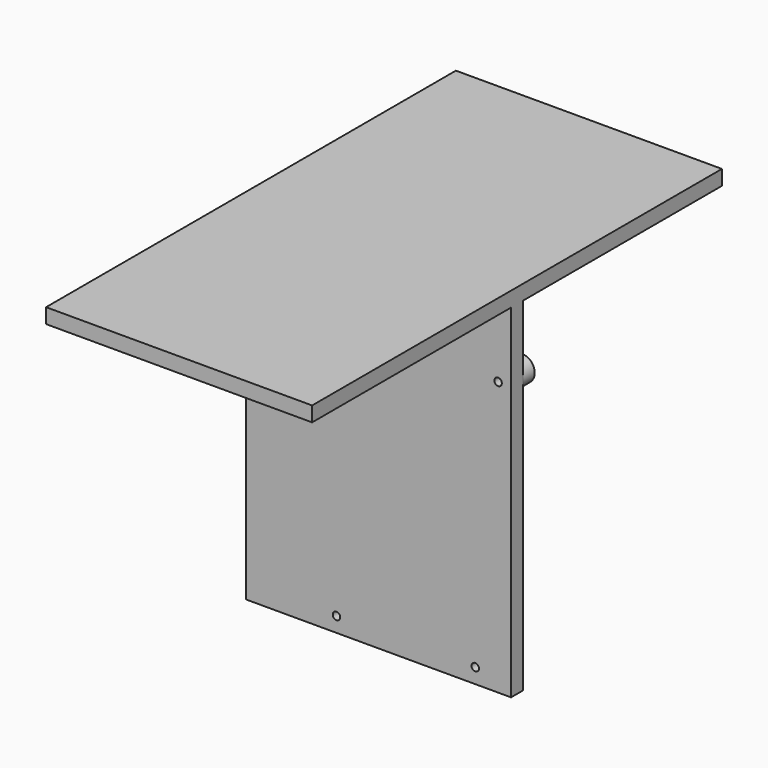
from build123d import *

# Parameters (mm, degrees)
F0_W     = 53.3
F0_H     = 72
F0_R     = 2.55
F0_R_2   = 0.75
F1_DEPTH = 3
F2_DEPTH = 3
F3_DEPTH = 3
F4_W     = 53.492
F4_H     = 3
F5_DEPTH = 53
F6_DEPTH = 50


with BuildPart() as f1:
    # F0 (on Front) → F1 (new body)
    with BuildSketch(Plane.XZ):
        with Locations((-26.65, -36)):
            Rectangle(F0_W, F0_H)
        with Locations((-35.1, -69)):
            Circle(F0_R, mode=Mode.SUBTRACT)
        with Locations((-7.2, -69)):
            Circle(F0_R, mode=Mode.SUBTRACT)
        with Locations((-50.6, -18)):
            Circle(F0_R, mode=Mode.SUBTRACT)
        with Locations((-2.6, -17)):
            Circle(F0_R, mode=Mode.SUBTRACT)
        with Locations((-50.6, -18)):
            Circle(F0_R)
        with Locations((-50.6, -18)):
            Circle(F0_R_2, mode=Mode.SUBTRACT)
        with Locations((-2.6, -17)):
            Circle(F0_R)
        with Locations((-2.6, -17)):
            Circle(F0_R_2, mode=Mode.SUBTRACT)
        with Locations((-7.2, -69)):
            Circle(F0_R)
        with Locations((-7.2, -69)):
            Circle(F0_R_2, mode=Mode.SUBTRACT)
        with Locations((-35.1, -69)):
            Circle(F0_R)
        with Locations((-35.1, -69)):
            Circle(F0_R_2, mode=Mode.SUBTRACT)
    extrude(amount=F1_DEPTH)

    # F0 (on Front) → F2 (join)
    with BuildSketch(Plane.XZ):
        with Locations((-50.6, -18)):
            Circle(F0_R)
        with Locations((-50.6, -18)):
            Circle(F0_R_2, mode=Mode.SUBTRACT)
        with Locations((-2.6, -17)):
            Circle(F0_R)
        with Locations((-2.6, -17)):
            Circle(F0_R_2, mode=Mode.SUBTRACT)
        with Locations((-7.2, -69)):
            Circle(F0_R)
        with Locations((-7.2, -69)):
            Circle(F0_R_2, mode=Mode.SUBTRACT)
        with Locations((-35.1, -69)):
            Circle(F0_R)
        with Locations((-35.1, -69)):
            Circle(F0_R_2, mode=Mode.SUBTRACT)
    extrude(amount=-F2_DEPTH)

    # F0 (on Front) → F3 (cut)
    with BuildSketch(Plane.XZ):
        with Locations((-2.6, -17)):
            Circle(F0_R_2)
        with Locations((-50.6, -18)):
            Circle(F0_R_2)
        with Locations((-35.1, -69)):
            Circle(F0_R_2)
        with Locations((-7.2, -69)):
            Circle(F0_R_2)
    extrude(amount=-F3_DEPTH, mode=Mode.SUBTRACT)

    # F4 (on Front) → F5 (join)
    with BuildSketch(Plane.XZ):
        with Locations((-26.746, -1.5)):
            Rectangle(F4_W, F4_H)
    extrude(amount=F5_DEPTH)

    # F4 (on Front) → F6 (join)
    with BuildSketch(Plane.XZ):
        with Locations((-26.746, -1.5)):
            Rectangle(F4_W, F4_H)
    extrude(amount=-F6_DEPTH)


solid = f1.part
